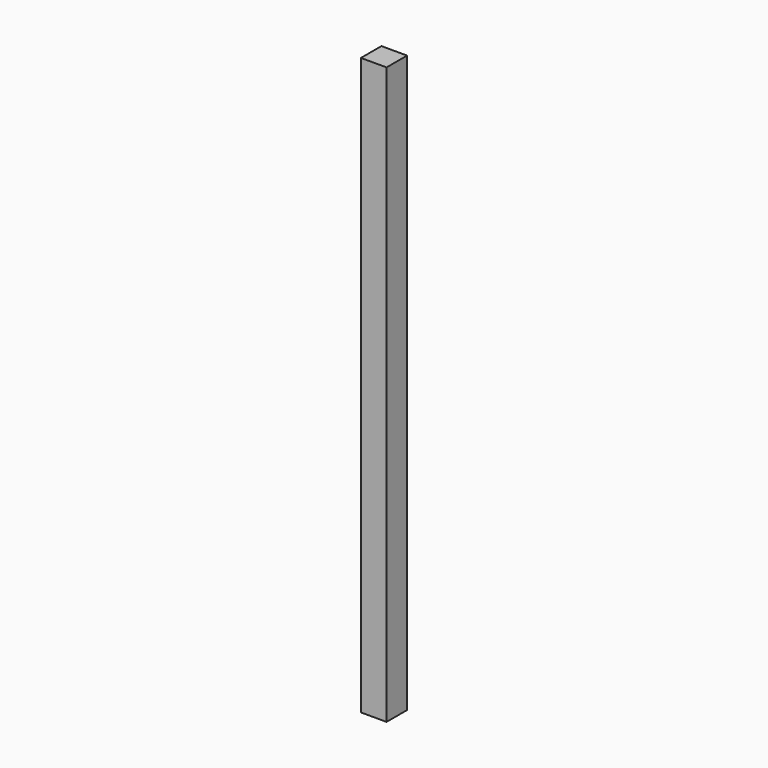
from build123d import *

# Parameters (mm, degrees)
F0_W     = 38.7412980199
F0_H     = 41.0243943334
F1_DEPTH = 562
F2_DEPTH = 25
F3_DEPTH = 25


with BuildPart() as f1:
    # F0 (on Top) → F1 (new body)
    with BuildSketch(Plane.XY):
        with Locations((19.3706490099, -20.5121971667)):
            Rectangle(F0_W, F0_H)
    extrude(amount=F1_DEPTH)

    # F2 (intersect): a face of the model
    f2_faces = [f1.faces().sort_by_distance(p)[0] for p in [
        (0, -20.5121971667, 281),
    ]]
    extrude(f2_faces, amount=-F2_DEPTH, mode=Mode.INTERSECT)

    # F3 (intersect): a face of the model
    f3_faces = [f1.faces().sort_by_distance(p)[0] for p in [
        (12.5, 0, 281),
    ]]
    extrude(f3_faces, amount=-F3_DEPTH, mode=Mode.INTERSECT)


solid = f1.part
